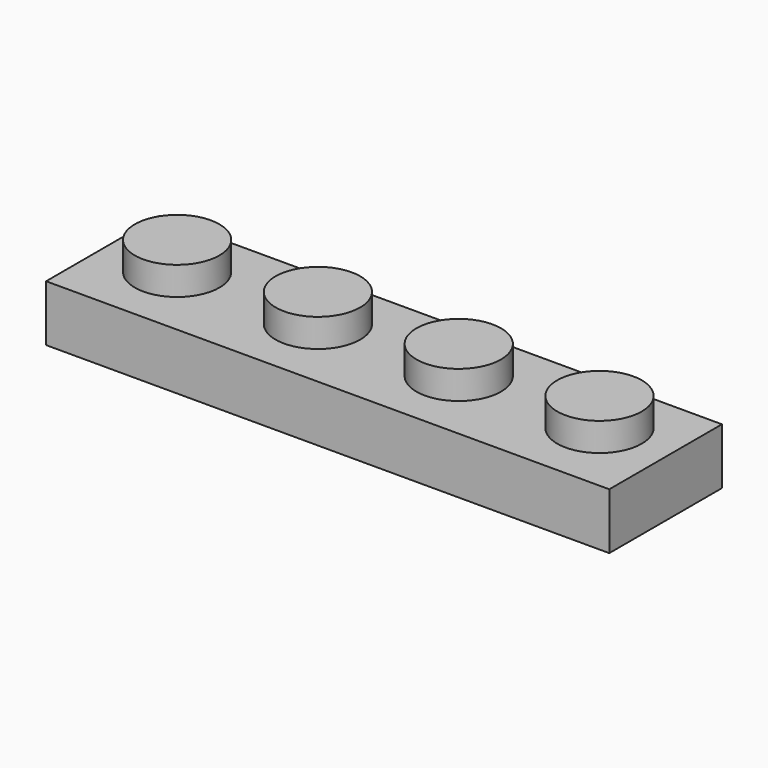
from build123d import *

# Parameters (mm, degrees)
F0_W     = 31.8008
F0_H     = 7.9502
F0_R     = 2.3876
F1_DEPTH = 3.175
F2_DEPTH = 4.7752
F3_T     = -1.6002


with BuildPart() as f1:
    # F0 (on Top) → F1 (new body)
    with BuildSketch(Plane.XY):
        with Locations((-4.8560211533, -2.5116165634)):
            Rectangle(F0_W, F0_H)
        with Locations((-16.7940211533, -2.1910497453)):
            Circle(F0_R, mode=Mode.SUBTRACT)
        with Locations((-8.8438211533, -2.1910497453)):
            Circle(F0_R, mode=Mode.SUBTRACT)
        with Locations((-0.8936211533, -2.1910497453)):
            Circle(F0_R, mode=Mode.SUBTRACT)
        with Locations((7.0565788467, -2.1910497453)):
            Circle(F0_R, mode=Mode.SUBTRACT)
    extrude(amount=F1_DEPTH)

    # F0 (on Top) → F2 (join)
    with BuildSketch(Plane.XY):
        with Locations((-16.7940211533, -2.1910497453)):
            Circle(F0_R)
        with Locations((-8.8438211533, -2.1910497453)):
            Circle(F0_R)
        with Locations((-0.8936211533, -2.1910497453)):
            Circle(F0_R)
        with Locations((7.0565788467, -2.1910497453)):
            Circle(F0_R)
    extrude(amount=F2_DEPTH)

    # F3
    f3_openings = [f1.faces().sort_by_distance(p)[0] for p in [
        (-4.856021, -2.511617, 0),
    ]]
    offset(amount=F3_T, openings=f3_openings, kind=Kind.INTERSECTION)


solid = f1.part
